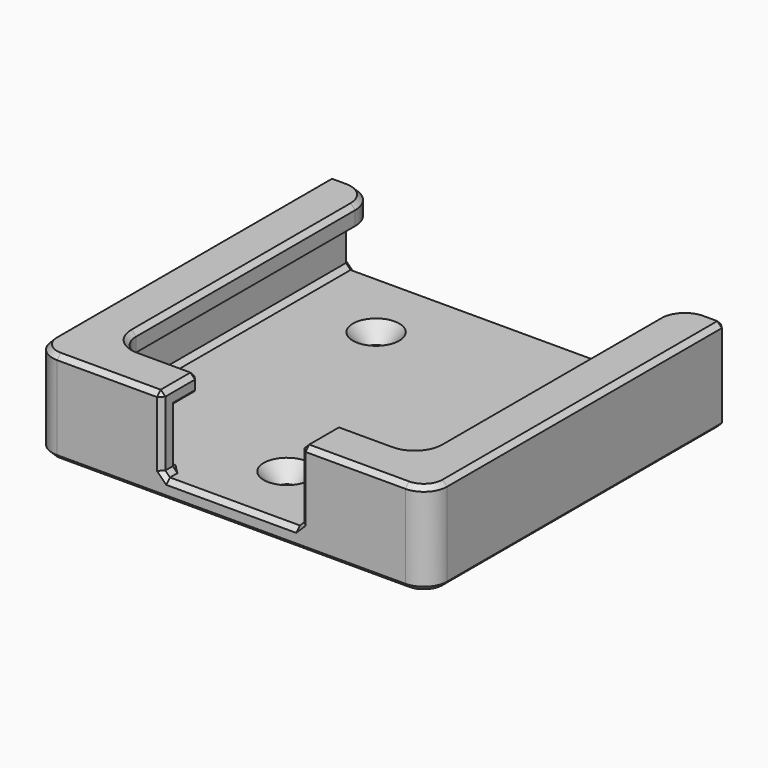
from build123d import *

# Parameters (mm, degrees)
F0_W            = 85
F0_H            = 80
F1_DEPTH        = 4
F3_DEPTH        = 12
F5_DEPTH        = 4
F6_R            = 5
F7_R            = 3
F8_R            = 6
F9_SIZE         = 1
F11_D           = 4
F11_CSINK_D     = 10
F11_CSINK_ANGLE = 82


with BuildPart() as f1:
    # F0 (on Top) → F1 (new body)
    with BuildSketch(Plane.XY):
        Rectangle(F0_W, F0_H)
    extrude(amount=F1_DEPTH)

    # F2 (on face) → F3 (join)
    with BuildSketch(Plane.XY.offset(4)):
        Polygon((-42.5, 40), (-42.5, -40), (-15, -40), (-15, -36), (-38.5, -36), (-38.5, 40), align=None)
        Polygon((42.5, 40), (38.5, 40), (38.5, -36), (15, -36), (15, -40), (42.5, -40), align=None)
    extrude(amount=F3_DEPTH)

    # F4 (on face) → F5 (join)
    with BuildSketch(Plane.XY.offset(16)):
        with BuildLine():
            Line((-42.5, 40), (-42.5, -40))
            Line((-42.5, -40), (-15, -40))
            Line((-15, -40), (-15, -36))
            Line((-15, -36), (-15, -30))
            Line((-15, -30), (-27.5, -30))
            ThreePointArc((-27.5, -30), (-31.0355339059, -28.5355339059), (-32.5, -25))
            Line((-32.5, -25), (-32.5, 40))
            Line((-32.5, 40), (-38.5, 40))
            Line((-38.5, 40), (-42.5, 40))
        make_face()
        with BuildLine():
            Line((38.5, 40), (32.5, 40))
            Line((32.5, 40), (32.5, -25))
            ThreePointArc((32.5, -25), (31.0355339059, -28.5355339059), (27.5, -30))
            Line((27.5, -30), (15, -30))
            Line((15, -30), (15, -36))
            Line((15, -36), (15, -40))
            Line((15, -40), (42.5, -40))
            Line((42.5, -40), (42.5, 40))
            Line((42.5, 40), (38.5, 40))
        make_face()
    extrude(amount=F5_DEPTH)

    # F6
    f6_edges = [f1.edges().sort_by_distance(p)[0] for p in [
        (-42.5, -40, 10),
        (42.5, -40, 10),
    ]]
    fillet(f6_edges, radius=F6_R)

    # F7
    f7_edges = [f1.edges().sort_by_distance(p)[0] for p in [
        (38.5, -36, 10),
        (-38.5, -36, 10),
    ]]
    fillet(f7_edges, radius=F7_R)

    # F8
    f8_edges = [f1.edges().sort_by_distance(p)[0] for p in [
        (-32.5, 40, 18),
        (32.5, 40, 18),
    ]]
    fillet(f8_edges, radius=F8_R)

    # F9
    f9_edges = [f1.edges().sort_by_distance(p)[0] for p in [
        (40.5, 40, 20),
        (38.5, 40, 18),
        (42.5, 40, 10),
        (38.5, 40, 10),
        (0, 40, 0),
        (0, 40, 4),
        (-42.5, 40, 10),
        (-38.5, 40, 10),
        (-40.5, 40, 20),
        (-38.5, 40, 18),
        (-26.25, -40, 20),
        (-37.5, -40, 10),
        (-15, -40, 12),
        (0, -40, 0),
        (0, -40, 4),
        (37.5, -40, 10),
        (15, -40, 12),
        (26.25, -40, 20),
        (41.035534, -38.535534, 0),
        (42.5, -35, 10),
        (41.035534, -38.535534, 20),
        (42.5, 2.5, 20),
        (42.5, 2.5, 0),
        (-41.035534, -38.535534, 20),
        (-42.5, -35, 10),
        (-41.035534, -38.535534, 0),
        (-42.5, 2.5, 20),
        (-42.5, 2.5, 0),
        (-25.25, -36, 4),
        (-37.62132, -35.12132, 4),
        (-15, -38, 4),
        (-38.5, 3.5, 4),
        (15, -38, 4),
        (38.5, 3.5, 4),
        (25.25, -36, 4),
        (37.62132, -35.12132, 4),
        (15, -36, 10),
        (15, -33, 16),
        (15, -30, 18),
        (15, -35, 20),
        (-15, -35, 20),
        (-15, -30, 18),
        (-15, -33, 16),
        (-15, -36, 10),
    ]]
    chamfer(f9_edges, length=F9_SIZE)

    # F11 (through all)
    with Locations(Plane.XY.offset(4)):
        with Locations((-20, 24), (20, 24), (0, -25)):
            CounterSinkHole(F11_D / 2, F11_CSINK_D / 2, counter_sink_angle=F11_CSINK_ANGLE)


solid = f1.part
